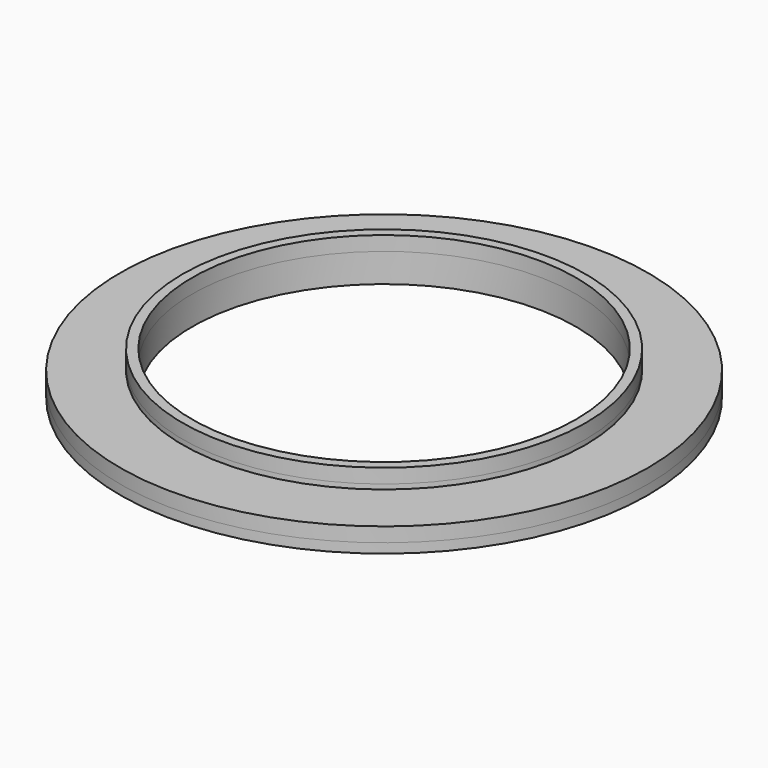
from build123d import *

# Parameters (mm, degrees)
SKETCH_R      = 11
SKETCH_R_2    = 8
PAD_DEPTH     = 1
SKETCH001_R   = 8.4
SKETCH001_R_2 = 8
PAD001_DEPTH  = 0.8
SKETCH002_R   = 11
SKETCH002_R_2 = 8
PAD002_DEPTH  = 0.4
SKETCH003_R   = 8.4
SKETCH003_R_2 = 8
PAD003_DEPTH  = 0.8


with BuildPart() as switchinsulatorbody:
    # Sketch → Pad (new body)
    with BuildSketch(Plane.XY):
        Circle(SKETCH_R)
        Circle(SKETCH_R_2, mode=Mode.SUBTRACT)
    extrude(amount=PAD_DEPTH)

    # Sketch001 (on Face4 of Pad) → Pad001 (join)
    with BuildSketch(Plane.XY.offset(1)):
        Circle(SKETCH001_R)
        Circle(SKETCH001_R_2, mode=Mode.SUBTRACT)
    extrude(amount=PAD001_DEPTH)


with BuildPart() as switchinsulatorbody001:
    # Sketch002 → Pad002 (new body)
    with BuildSketch(Plane.XY):
        Circle(SKETCH002_R)
        Circle(SKETCH002_R_2, mode=Mode.SUBTRACT)
    extrude(amount=PAD002_DEPTH)

    # Sketch003 (on Face4 of Pad002) → Pad003 (join)
    with BuildSketch(Plane.XY.offset(0.4)):
        Circle(SKETCH003_R)
        Circle(SKETCH003_R_2, mode=Mode.SUBTRACT)
    extrude(amount=PAD003_DEPTH)


solid = Compound([switchinsulatorbody.part, switchinsulatorbody001.part])
